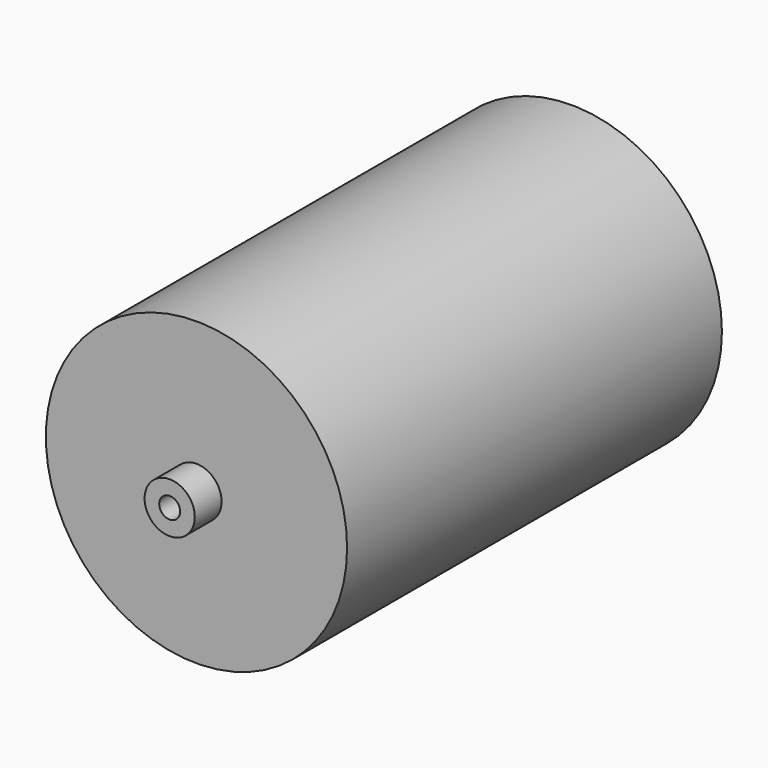
from build123d import *

# Parameters (mm, degrees)
F0_R     = 19.05
F0_R_2   = 7.9375
F1_DEPTH = 25.4
F2_R     = 114.3
F3_DEPTH = 355.6
F4_R     = 7.9375
F5_DEPTH = 50.8
F6_R     = 114.3
F7_DEPTH = 50.8


with BuildPart() as f1:
    # F0 (on Front) → F1 (new body)
    with BuildSketch(Plane.XZ):
        Circle(F0_R)
        Circle(F0_R_2, mode=Mode.SUBTRACT)
    extrude(amount=F1_DEPTH)


with BuildPart() as f3:
    # F2 (on Front) → F3 (new body)
    with BuildSketch(Plane.XZ):
        Circle(F2_R)
    extrude(amount=-F3_DEPTH)

    # F4 (on face) → F5 (cut)
    with BuildSketch(Plane(origin=(0, 355.6, 0), x_dir=(-1, 0, 0), z_dir=(0, 1, 0))):
        Circle(F4_R)
    extrude(amount=-F5_DEPTH, mode=Mode.SUBTRACT)


with BuildPart() as f7:
    # F6 (on face) → F7 (new body)
    with BuildSketch(Plane(origin=(0, 355.6, 0), x_dir=(-1, 0, 0), z_dir=(0, 1, 0))):
        Circle(F6_R)
    extrude(amount=F7_DEPTH)


solid = Compound([f1.part, f3.part])
